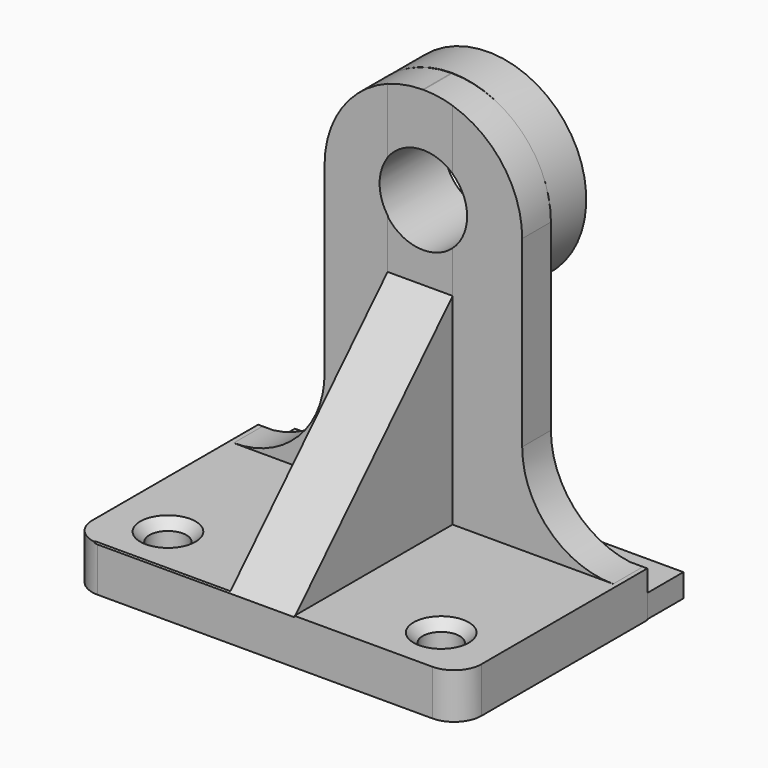
from build123d import *

# Parameters (mm, degrees)
SKETCH_W             = 42.762054
SKETCH_H             = 25.790352
PAD_DEPTH            = 5
PAD001_DEPTH         = 41
FILLET_R             = 10.85
FILLET001_R          = 10
SKETCH002_R          = 2.036707
POCKET_DEPTH         = 5.001
CHAMFER_SIZE         = 1
POCKET001_DEPTH      = 22
FILLET002_R          = 3
SKETCH004_R          = 10.7777
SKETCH004_R_2        = 4.77159
PAD002_DEPTH         = 5
PAD003_DEPTH         = 5
SKETCH006_R          = 4.840276
POCKET002_DEPTH      = 25.653292
POCKET002_DEPTH_BACK = -5.13906


with BuildPart() as part:
    # Sketch → Pad (new body)
    with BuildSketch(Plane.XY):
        Rectangle(SKETCH_W, SKETCH_H)
    extrude(amount=PAD_DEPTH)

    # Sketch001 (on Face6 of Pad) → Pad001 (join)
    with BuildSketch(Plane.XY.offset(5)):
        Polygon((-3.907949, -12.839293), (-3.907949, 8.895021), (-10.893314, 8.904404), (-10.893314, 12.757116), (10.893314, 12.757116), (10.893314, 8.812844), (3.240797, 8.812844), (3.240797, -12.839293), align=None)
    extrude(amount=PAD001_DEPTH)

    # Fillet
    fillet_edges = [part.edges().sort_by_distance(p)[0] for p in [
        (10.893314, 10.78498, 46),
        (-10.893314, 10.83076, 46),
    ]]
    fillet(fillet_edges, radius=FILLET_R)

    # Fillet001
    fillet001_edges = [part.edges().sort_by_distance(p)[0] for p in [
        (-10.893314, 10.83076, 5),
        (10.893314, 10.78498, 5),
    ]]
    fillet(fillet001_edges, radius=FILLET001_R)

    # Sketch002 (on Face1 of Fillet001) → Pocket (cut, through all)
    with BuildSketch(Plane.XY.offset(5)):
        with Locations((-15.012179, -7.460228)):
            Circle(SKETCH002_R)
        with Locations((15.012179, -7.460228)):
            Circle(SKETCH002_R)
    extrude(amount=-POCKET_DEPTH, mode=Mode.SUBTRACT)

    # Chamfer
    chamfer_edges = [part.edges().sort_by_distance(p)[0] for p in [
        (12.975472, -7.460228, 5),
        (-17.048886, -7.460228, 5),
    ]]
    chamfer(chamfer_edges, length=CHAMFER_SIZE)

    # Sketch003 (on Face12 of Chamfer) → Pocket001 (cut)
    with BuildSketch(Plane.YZ.offset(3.240797)):
        Polygon((8.830447, 27.110086), (-15.870471, 1.811423), (-31.901745, 27.110086), (-35.434662, 50.068335), (8.830447, 52.205082), align=None)
    extrude(amount=-POCKET001_DEPTH, mode=Mode.SUBTRACT)

    # Fillet002
    fillet002_edges = [part.edges().sort_by_distance(p)[0] for p in [
        (21.381027, -12.895176, 2.5),
        (-21.381027, -12.895176, 2.5),
    ]]
    fillet(fillet002_edges, radius=FILLET002_R)

    # Sketch004 (on Face16 of Fillet002) → Pad002 (join)
    with BuildSketch(Plane(origin=(0, 12.757116, 0), x_dir=(-1, 0, 0), z_dir=(0, 1, 0))):
        with Locations((0, 35.262314)):
            Circle(SKETCH004_R)
        with Locations((0, 35.262314)):
            Circle(SKETCH004_R_2, mode=Mode.SUBTRACT)
    extrude(amount=PAD002_DEPTH)

    # Sketch005 (on Face4 of Pad002) → Pad003 (join)
    with BuildSketch(Plane(origin=(0, 12.895176, 0), x_dir=(-1, 0, 0), z_dir=(0, 1, 0))):
        Polygon((-21.338758, 0.045037), (-21.338758, 2.59236), (21.34976, 2.59236), (21.34976, -0.041886), align=None)
    extrude(amount=PAD003_DEPTH)

    # Sketch006 (on Face40 of Pad003) → Pocket002 (cut, two sides)
    with BuildSketch(Plane(origin=(0, 12.757116, 0), x_dir=(-1, 0, 0), z_dir=(0, 1, 0))) as pocket002_sk:
        with Locations((0, 35.328526)):
            Circle(SKETCH006_R)
    extrude(amount=-POCKET002_DEPTH, mode=Mode.SUBTRACT)
    extrude(pocket002_sk.sketch, amount=-POCKET002_DEPTH_BACK, mode=Mode.SUBTRACT)


solid = part.part
